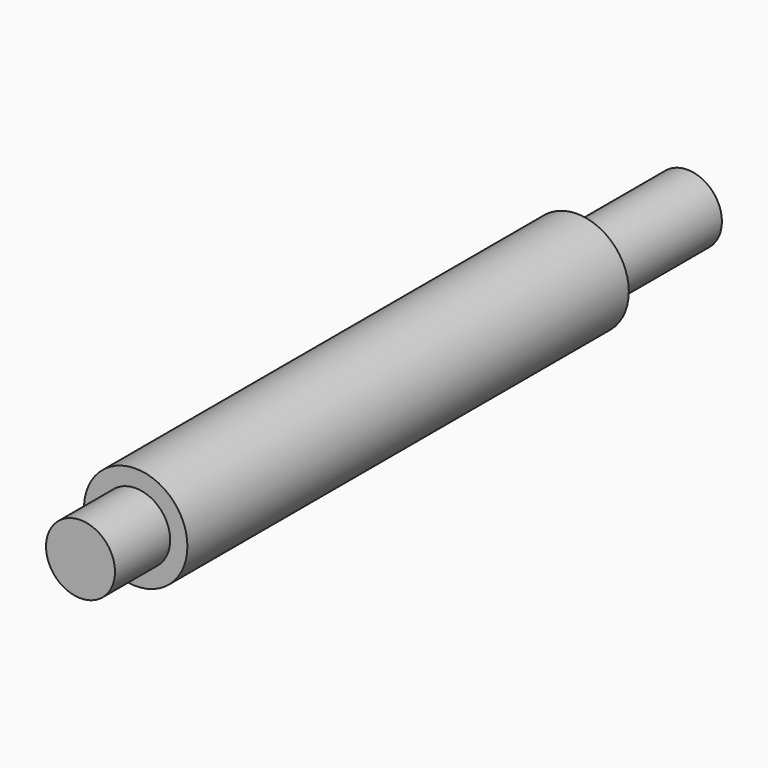
from build123d import *

# Parameters (mm, degrees)
F0_R     = 9.525
F1_DEPTH = 101.6
F2_R     = 6.35
F3_DEPTH = 12.7
F4_R     = 6.35
F5_DEPTH = 25.4


with BuildPart() as f1:
    # F0 (on Front) → F1 (new body)
    with BuildSketch(Plane.XZ):
        Circle(F0_R)
    extrude(amount=F1_DEPTH)

    # F2 (on face) → F3 (join)
    with BuildSketch(Plane.XZ.offset(101.6)):
        Circle(F2_R)
    extrude(amount=F3_DEPTH)

    # F4 (on Front) → F5 (join)
    with BuildSketch(Plane.XZ):
        Circle(F4_R)
    extrude(amount=-F5_DEPTH)


solid = f1.part
